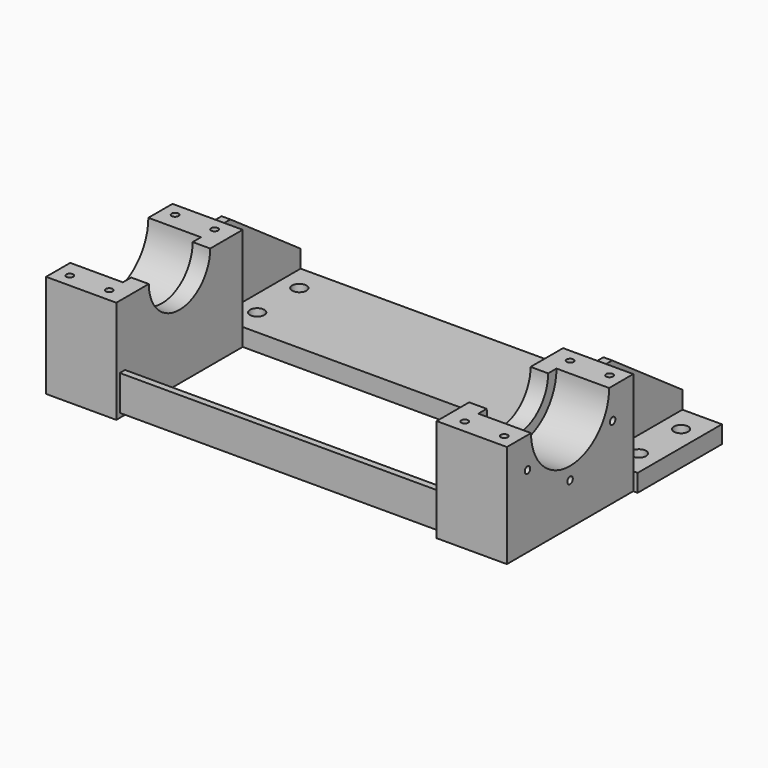
from build123d import *

# Parameters (mm, degrees)
F0_W      = 1358.9
F0_H      = 304.8
F0_R      = 20.6375
F1_DEPTH  = 50.8
F2_W      = 25.4
F2_H      = 304.8
F3_DEPTH  = 228.6
F5_DEPTH  = 1244.601
F6_W      = 203.2
F6_H      = 457.2
F7_DEPTH  = 298.45
F8_R      = 141.2875
F9_DEPTH  = 152.4
F10_R     = 111.125
F11_DEPTH = 1193.801
F13_D     = 19.84248
F13_DEPTH = 38.1
F13_TIP   = 5.9612824079
F15_D     = 19.84248
F15_DEPTH = 38.1
F15_TIP   = 5.9612824079
F18_DEPTH = 927.1


with BuildPart() as f1:
    # F0 (on Top) → F1 (new body)
    with BuildSketch(Plane.XY):
        Rectangle(F0_W, F0_H)
        with Locations((-622.3, -76.2)):
            Circle(F0_R, mode=Mode.SUBTRACT)
        with Locations((-482.6, -76.2)):
            Circle(F0_R, mode=Mode.SUBTRACT)
        with Locations((482.6, -76.2)):
            Circle(F0_R, mode=Mode.SUBTRACT)
        with Locations((622.3, -76.2)):
            Circle(F0_R, mode=Mode.SUBTRACT)
        with Locations((-622.3, 76.2)):
            Circle(F0_R, mode=Mode.SUBTRACT)
        with Locations((-482.6, 76.2)):
            Circle(F0_R, mode=Mode.SUBTRACT)
        with Locations((482.6, 76.2)):
            Circle(F0_R, mode=Mode.SUBTRACT)
        with Locations((622.3, 76.2)):
            Circle(F0_R, mode=Mode.SUBTRACT)
    extrude(amount=F1_DEPTH)

    # F2 (on face) → F3 (join)
    with BuildSketch(Plane.XY.offset(50.8)):
        with Locations((-552.45, 0)):
            Rectangle(F2_W, F2_H)
        with Locations((552.45, 0)):
            Rectangle(F2_W, F2_H)
    extrude(amount=F3_DEPTH)

    # F4 (on face) → F5 (cut, through all)
    with BuildSketch(Plane.YZ.offset(565.15)):
        Polygon((152.4, 279.4), (-101.6, 279.4), (152.4, 101.6), align=None)
    extrude(amount=-F5_DEPTH, mode=Mode.SUBTRACT)

    # F16: F7 across plane


with BuildPart() as f7:
    # F6 (on face) → F7 (new body)
    with BuildSketch(Plane(origin=(0, 0, 0), x_dir=(1, 0, 0), z_dir=(0, 0, -1))):
        with Locations((565.15, 381)):
            Rectangle(F6_W, F6_H)
    extrude(amount=-F7_DEPTH)

    # F8 (on face) → F9 (cut)
    with BuildSketch(Plane.YZ.offset(666.75)):
        with Locations((-381, 298.45)):
            Circle(F8_R)
    extrude(amount=-F9_DEPTH, mode=Mode.SUBTRACT)

    # F10 (on face) → F11 (cut, through all)
    with BuildSketch(Plane.YZ.offset(514.35)):
        with Locations((-381, 298.45)):
            Circle(F10_R)
    extrude(amount=-F11_DEPTH, mode=Mode.SUBTRACT)

    # F13
    with Locations(Plane.YZ.offset(666.75)):
        with Locations((-534.9793167929, 209.55), (-381, 120.65), (-227.0206832071, 209.55)):
            Hole(F13_D / 2, depth=F13_DEPTH)
            with Locations((0, 0, -(F13_DEPTH + F13_TIP / 2))):  # 118° drill point
                Cone(0, F13_D / 2, F13_TIP, mode=Mode.SUBTRACT)

    # F15
    with Locations(Plane.XY.offset(298.45)):
        with Locations((514.35, -571.5), (628.65, -571.5), (514.35, -190.5), (628.65, -190.5)):
            Hole(F15_D / 2, depth=F15_DEPTH)
            with Locations((0, 0, -(F15_DEPTH + F15_TIP / 2))):  # 118° drill point
                Cone(0, F15_D / 2, F15_TIP, mode=Mode.SUBTRACT)


with BuildPart() as f1_1:
    add(f1.part)
    add(f7.part.mirror(Plane.YZ))


    add(f7.part)  # F18 merges F7
    # F17 (on face) → F18 (join, through all)
    with BuildSketch(Plane.YZ.offset(-463.55)):
        Polygon((-596.9, 12.7), (-495.3, 12.7), (-495.3, 31.75), (-577.85, 31.75), (-577.85, 114.3), (-596.9, 114.3), align=None)
    extrude(amount=F18_DEPTH)


solid = f1_1.part
